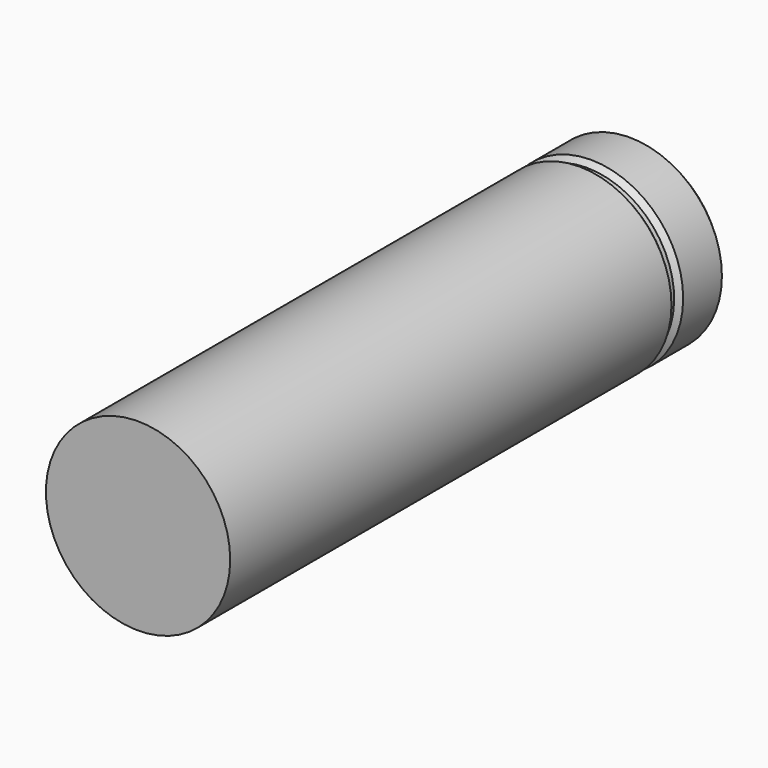
from build123d import *

# Parameters (mm, degrees)
F0_R     = 10
F1_DEPTH = 67.5
F4_SIZE2 = 0.8
F4_SIZE  = 0.8


with BuildPart() as f1:
    # F0 (on Front) → F1 (new body)
    with BuildSketch(Plane.XZ):
        Circle(F0_R)
    extrude(amount=-F1_DEPTH)

    # F2 (on Right) → F3 (revolve, cut)
    with BuildSketch(Plane.YZ):
        Polygon((60.4, 9.455708), (60.9, 9.455708), (61.465685, 10.021394), (59.834315, 10.021394), align=None)
        Polygon((61.465685, -10.021394), (60.9, -9.455708), (60.4, -9.455708), (59.834315, -10.021394), align=None)
    revolve(axis=Axis((0, 0, 0), (0, -1, 0)), mode=Mode.SUBTRACT)

    # F4
    f4_edges = [f1.edges().sort_by_distance(p)[0] for p in [
        (-10, 67.5, 0),
    ]]
    chamfer(f4_edges, length=F4_SIZE, length2=F4_SIZE2)


solid = f1.part
